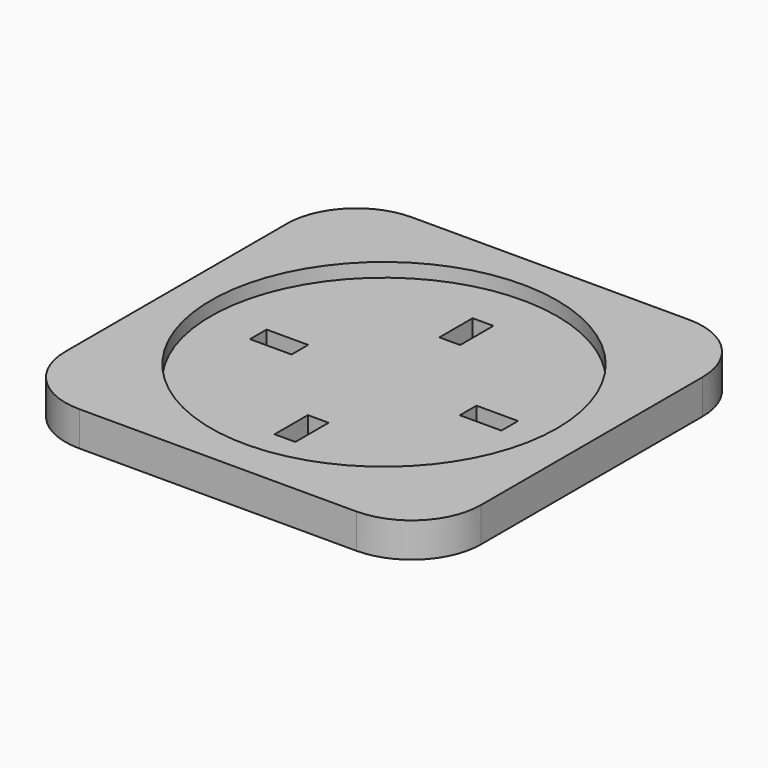
from build123d import *

# Parameters (mm, degrees)
F0_W     = 60
F0_H     = 60
F1_DEPTH = 5
F2_R     = 25
F3_DEPTH = 2
F4_R     = 10
F5_W     = 6
F5_H     = 3
F5_W_2   = 3
F5_H_2   = 6
F6_DEPTH = 25


with BuildPart() as f1:
    # F0 (on Top) → F1 (new body)
    with BuildSketch(Plane.XY):
        Rectangle(F0_W, F0_H)
    extrude(amount=F1_DEPTH)

    # F2 (on face) → F3 (cut)
    with BuildSketch(Plane.XY.offset(5)):
        Circle(F2_R)
    extrude(amount=-F3_DEPTH, mode=Mode.SUBTRACT)

    # F4
    f4_edges = [f1.edges().sort_by_distance(p)[0] for p in [
        (-30, 30, 2.5),
        (30, 30, 2.5),
        (30, -30, 2.5),
        (-30, -30, 2.5),
    ]]
    fillet(f4_edges, radius=F4_R)

    # F5 (on face) → F6 (cut)
    with BuildSketch(Plane.XY.offset(3)):
        with Locations((-15.041312, -0.136277)):
            Rectangle(F5_W, F5_H)
        with Locations((-0.136277, 15.041312)):
            Rectangle(F5_W_2, F5_H_2)
        with Locations((0.136277, -15.041312)):
            Rectangle(F5_W_2, F5_H_2)
        with Locations((15.041312, 0.136277)):
            Rectangle(F5_W, F5_H)
    extrude(amount=-F6_DEPTH, mode=Mode.SUBTRACT)


solid = f1.part
